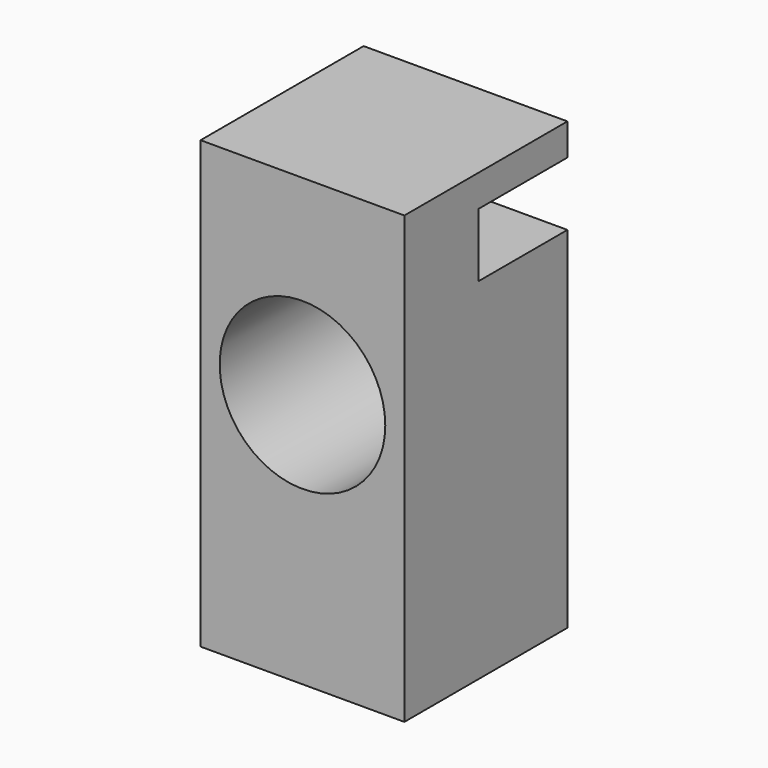
from build123d import *

# Parameters (mm, degrees)
F0_W     = 8.128
F0_H     = 8.128
F1_DEPTH = 17.78
F2_W     = 4.445
F2_H     = 2.54
F3_DEPTH = 25.4
F4_R     = 3.302
F5_DEPTH = 25.4


with BuildPart() as f1:
    # F0 (on Top) → F1 (new body)
    with BuildSketch(Plane.XY):
        with Locations((4.064, 4.064)):
            Rectangle(F0_W, F0_H)
    extrude(amount=F1_DEPTH)

    # F2 (on face) → F3 (cut)
    with BuildSketch(Plane.YZ.offset(8.128)):
        with Locations((5.9055, 15.24)):
            Rectangle(F2_W, F2_H)
    extrude(amount=-F3_DEPTH, mode=Mode.SUBTRACT)

    # F4 (on face) → F5 (cut)
    with BuildSketch(Plane.XZ):
        with Locations((4.064, 10.16)):
            Circle(F4_R)
    extrude(amount=-F5_DEPTH, mode=Mode.SUBTRACT)


solid = f1.part
